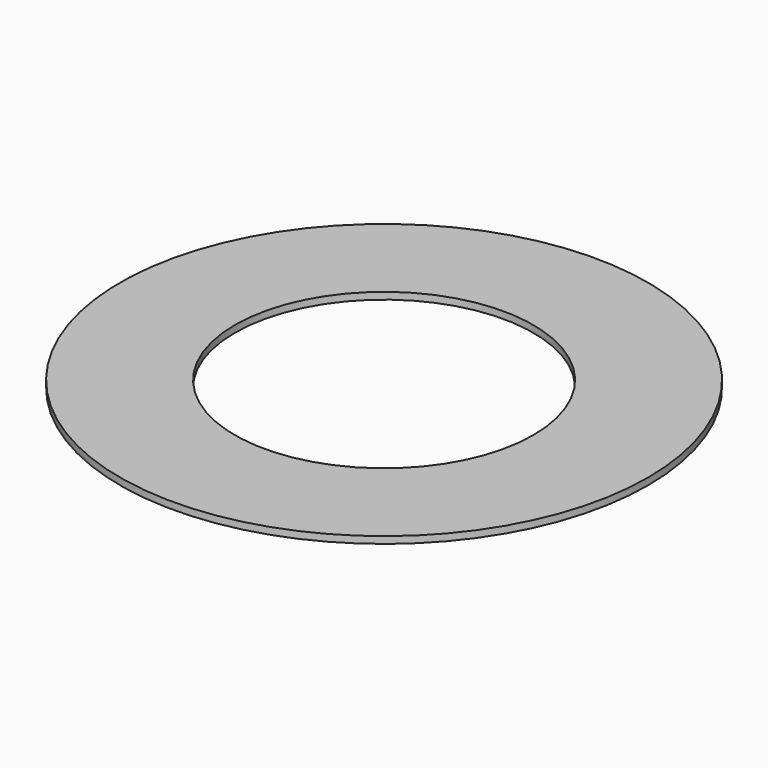
from build123d import *

# Parameters (mm, degrees)
SKETCH_R   = 11.5
SKETCH_R_2 = 6.5
PAD_DEPTH  = 0.3


with BuildPart() as part:
    # Sketch → Pad (new body)
    with BuildSketch(Plane.XY):
        Circle(SKETCH_R)
        Circle(SKETCH_R_2, mode=Mode.SUBTRACT)
    extrude(amount=PAD_DEPTH)


solid = part.part
